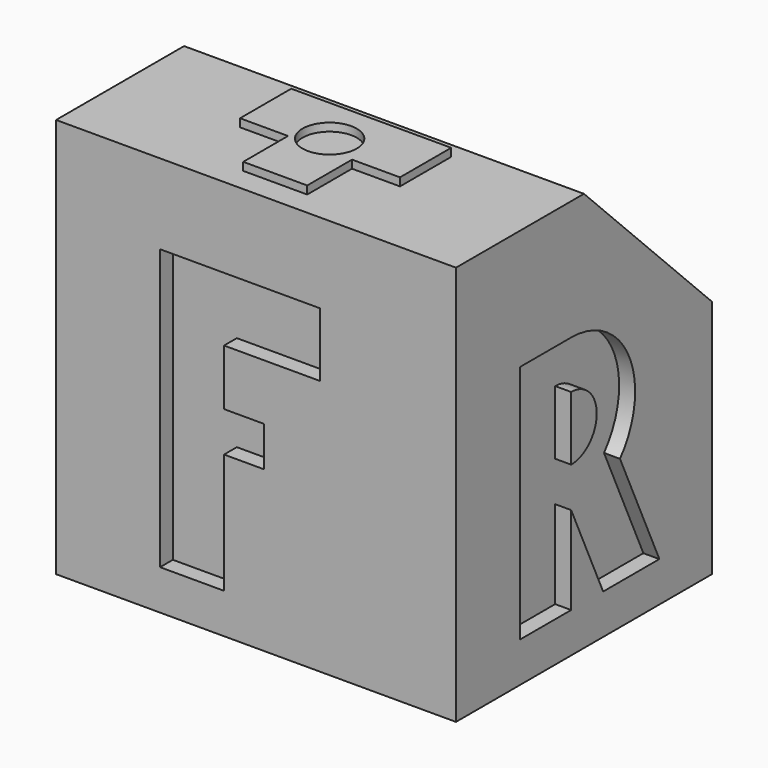
from build123d import *

# Parameters (mm, degrees)
F0_W      = 50
F0_H      = 50
F1_DEPTH  = 40
F2_SIZE   = 20
F4_DEPTH  = 2
F6_DEPTH  = 2
F8_DEPTH  = 2
F9_R      = 3.387278
F10_DEPTH = 1
F12_DEPTH = 2


with BuildPart() as f1:
    # F0 (on Front) → F1 (new body)
    with BuildSketch(Plane.XZ):
        with Locations((-25, 25)):
            Rectangle(F0_W, F0_H)
    extrude(amount=-F1_DEPTH)

    # F2
    f2_edges = [f1.edges().sort_by_distance(p)[0] for p in [
        (-25, 40, 50),
    ]]
    chamfer(f2_edges, length=F2_SIZE)

    # F3 (on face) → F4 (cut)
    with BuildSketch(Plane.XZ):
        Polygon((-37, 40), (-37, 5), (-29, 5), (-29, 20), (-24, 20), (-24, 25), (-29, 25), (-29, 32), (-17, 32), (-17, 40), align=None)
    extrude(amount=-F4_DEPTH, mode=Mode.SUBTRACT)

    # F5 (on face) → F6 (cut)
    with BuildSketch(Plane.YZ):
        with BuildLine():
            Line((10, 35), (10, 5))
            Line((10, 5), (18, 5))
            Line((18, 5), (18, 16))
            Line((18, 16), (23, 5))
            Line((23, 5), (31.78767, 5))
            Line((31.78767, 5), (25.633212, 18.539808))
            ThreePointArc((25.633212, 18.539808), (27.071988, 29.207023), (18, 35))
            Line((18, 35), (10, 35))
        make_face()
        with BuildLine():
            Line((18, 21), (18, 29))
            ThreePointArc((18, 29), (22, 25), (18, 21))
        make_face(mode=Mode.SUBTRACT)
    extrude(amount=-F6_DEPTH, mode=Mode.SUBTRACT)

    # F7 (on face) → F8 (cut)
    with BuildSketch(Plane(origin=(-50, 0, 0), x_dir=(0, -1, 0), z_dir=(-1, 0, 0))):
        Polygon((-22, 35), (-30, 35), (-30, 5), (-10, 5), (-10, 13), (-22, 13), align=None)
    extrude(amount=-F8_DEPTH, mode=Mode.SUBTRACT)

    # F9 (on face) → F10 (join)
    with BuildSketch(Plane.XY.offset(50)):
        Polygon((-29, 10), (-29, 3), (-21, 3), (-21, 10), (-15, 10), (-15, 18), (-35, 18), (-35, 10), align=None)
        with Locations((-25.483249, 12.10618)):
            Circle(F9_R, mode=Mode.SUBTRACT)
    extrude(amount=F10_DEPTH)

    # F11 (on face) → F12 (cut)
    with BuildSketch(Plane(origin=(0, 0, 0), x_dir=(1, 0, 0), z_dir=(0, 0, -1))):
        with BuildLine():
            Line((-35, -7), (-35, -37))
            Line((-35, -37), (-27, -37))
            ThreePointArc((-27, -37), (-18, -28), (-27, -19))
            ThreePointArc((-27, -19), (-21, -13), (-27, -7))
            Line((-27, -7), (-35, -7))
        make_face()
        with BuildLine():
            ThreePointArc((-27, -25), (-24, -28), (-27, -31))
            Line((-27, -31), (-27, -25))
        make_face(mode=Mode.SUBTRACT)
        with BuildLine():
            Line((-27, -15), (-27, -11))
            ThreePointArc((-27, -11), (-25, -13), (-27, -15))
        make_face(mode=Mode.SUBTRACT)
    extrude(amount=-F12_DEPTH, mode=Mode.SUBTRACT)


solid = f1.part
